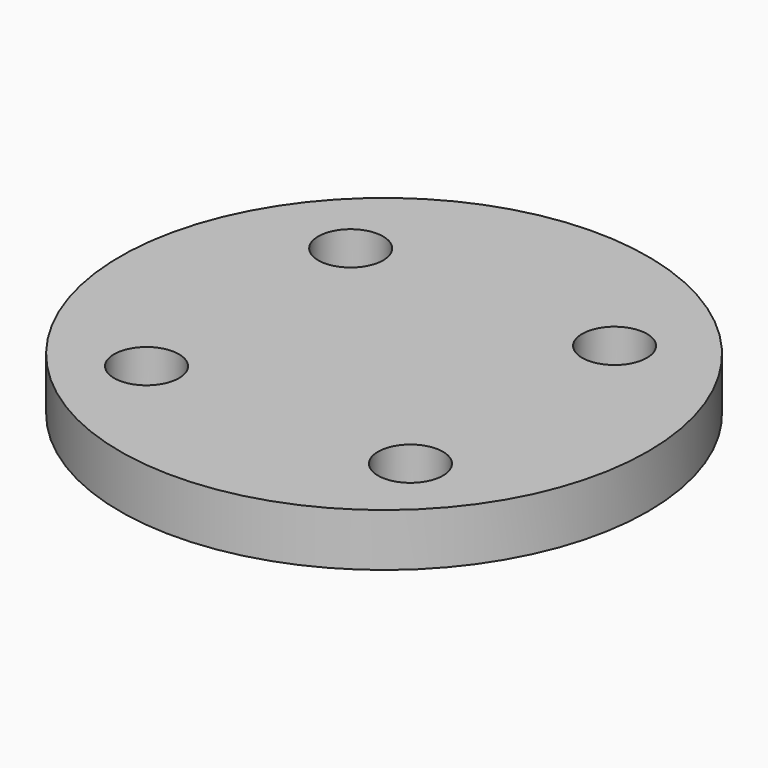
from build123d import *

# Parameters (mm, degrees)
SKETCH_R   = 30
SKETCH_R_2 = 3.687634
PAD_DEPTH  = 6


with BuildPart() as part:
    # Sketch → Pad (new body)
    with BuildSketch(Plane.XY):
        Circle(SKETCH_R)
        with Locations((14.997686, 13.999214)):
            Circle(SKETCH_R_2, mode=Mode.SUBTRACT)
        with Locations((-14.997686, 13.999214)):
            Circle(SKETCH_R_2, mode=Mode.SUBTRACT)
        with Locations((15.000016, -14.999988)):
            Circle(SKETCH_R_2, mode=Mode.SUBTRACT)
        with Locations((-15.000016, -14.999988)):
            Circle(SKETCH_R_2, mode=Mode.SUBTRACT)
    extrude(amount=PAD_DEPTH)


solid = part.part
